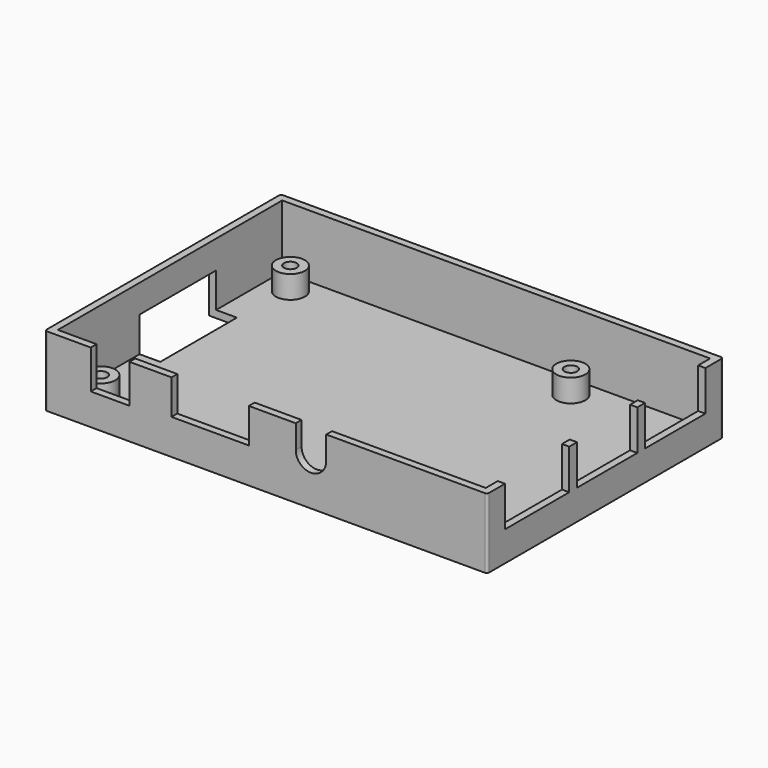
from build123d import *

# Parameters (mm, degrees)
F0_W      = 91.5
F0_H      = 61
F1_DEPTH  = 14.5
F2_T      = -1.5
F3_W      = 8
F3_H      = 8
F3_W_2    = 16
F3_H_2    = 7.2
F4_DEPTH  = 2.1
F5_W      = 19.8
F5_H      = 8.7
F6_DEPTH  = 5.8
F7_W      = 16.6
F7_H      = 8.3
F7_W_2    = 15.6
F8_DEPTH  = 3
F9_R      = 3
F9_R_2    = 1.325
F10_DEPTH = 4.7
F11_R     = 0.5


with BuildPart() as f1:
    # F0 (on Top) → F1 (new body)
    with BuildSketch(Plane.XY):
        Rectangle(F0_W, F0_H)
    extrude(amount=F1_DEPTH)

    # F2
    f2_openings = [f1.faces().sort_by_distance(p)[0] for p in [
        (0, 0, 14.5),
    ]]
    offset(amount=F2_T, openings=f2_openings)

    # F3 (on face) → F4 (cut)
    with BuildSketch(Plane.XZ.offset(30.5)):
        with Locations((-32.25, 10.5)):
            Rectangle(F3_W, F3_H)
        with Locations((-11.55, 10.9)):
            Rectangle(F3_W_2, F3_H_2)
        with BuildLine():
            ThreePointArc((6.15, 9.65), (9.3, 6.5), (12.45, 9.65))
            ThreePointArc((12.45, 9.65), (9.3, 12.8), (6.15, 9.65))
        make_face()
        with BuildLine():
            ThreePointArc((6.15, 9.65), (9.3, 12.8), (12.45, 9.65))
            Line((12.45, 9.65), (12.45, 14.5))
            Line((12.45, 14.5), (6.15, 14.5))
            Line((6.15, 14.5), (6.15, 9.65))
        make_face()
    extrude(amount=-F4_DEPTH, mode=Mode.SUBTRACT)

    # F5 (on face) → F6 (cut)
    with BuildSketch(Plane(origin=(-45.75, 0, 0), x_dir=(0, -1, 0), z_dir=(-1, 0, 0))):
        with Locations((-2.006637, 4.35)):
            Rectangle(F5_W, F5_H)
    extrude(amount=-F6_DEPTH, mode=Mode.SUBTRACT)

    # F7 (on face) → F8 (cut)
    with BuildSketch(Plane.YZ.offset(45.75)):
        with Locations((-17.6, 10.35)):
            Rectangle(F7_W, F7_H)
        with Locations((0.5, 10.35)):
            Rectangle(F7_W_2, F7_H)
        with Locations((18.1, 10.35)):
            Rectangle(F7_W_2, F7_H)
    extrude(amount=-F8_DEPTH, mode=Mode.SUBTRACT)

    # F9 (on face) → F10 (join)
    with BuildSketch(Plane.XY.offset(1.5)):
        with Locations((19.04, 24.5)):
            Circle(F9_R)
        with Locations((19.04, 24.5)):
            Circle(F9_R_2, mode=Mode.SUBTRACT)
        with Locations((19.04, -24.5)):
            Circle(F9_R)
        with Locations((19.04, -24.5)):
            Circle(F9_R_2, mode=Mode.SUBTRACT)
        with Locations((-38.96, 24.5)):
            Circle(F9_R)
        with Locations((-38.96, 24.5)):
            Circle(F9_R_2, mode=Mode.SUBTRACT)
        with Locations((-38.96, -24.5)):
            Circle(F9_R)
        with Locations((-38.96, -24.5)):
            Circle(F9_R_2, mode=Mode.SUBTRACT)
    extrude(amount=F10_DEPTH)

    # F11
    f11_edges = [f1.edges().sort_by_distance(p)[0] for p in [
        (-45.75, -30.5, 7.25),
        (-45.75, 30.5, 7.25),
        (45.75, -30.5, 7.25),
        (45.75, 30.5, 7.25),
    ]]
    fillet(f11_edges, radius=F11_R)


solid = f1.part
